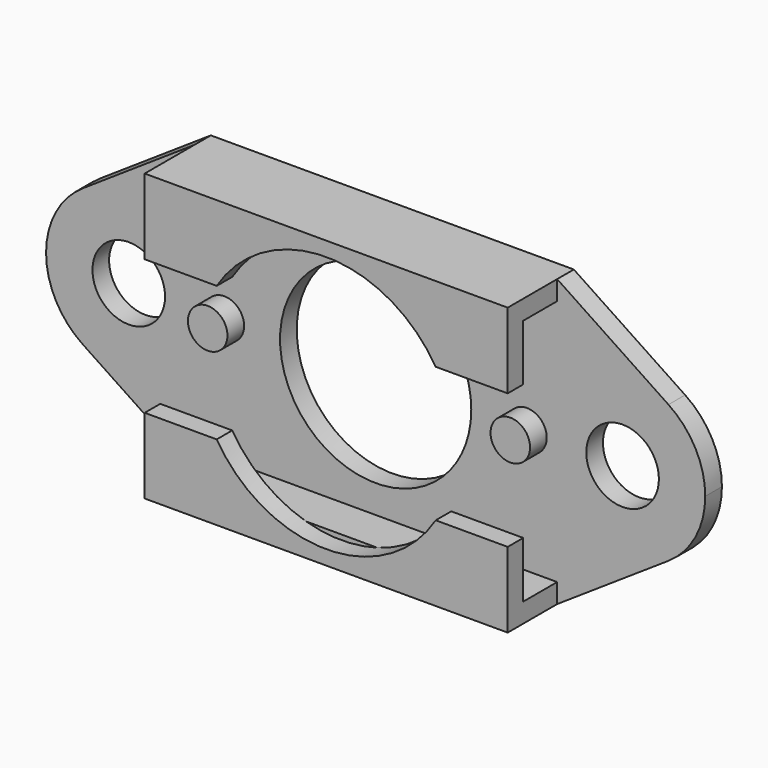
from build123d import *

# Parameters (mm, degrees)
F0_W      = 23.2918
F0_H      = 10.1092
F1_DEPTH  = 0.7366
F3_DEPTH  = 25.4
F4_R      = 1.2827
F4_R_2    = 3.3782
F5_DEPTH  = 0.7376
F6_R      = 0.6985
F7_DEPTH  = 0.7366
F9_DEPTH  = 2.1844
F10_W     = 1.4986
F10_H     = 1.9812
F11_DEPTH = 18.0604
F12_W     = 1.4986
F12_H     = 1.9812
F13_DEPTH = 18.0604
F15_DEPTH = 0.6858
F17_DEPTH = 0.6858


with BuildPart() as f1:
    # F0 (on Front) → F1 (new body)
    with BuildSketch(Plane.XZ):
        Rectangle(F0_W, F0_H)
    extrude(amount=F1_DEPTH)

    # F2 (on face) → F3 (cut)
    with BuildSketch(Plane.XZ.offset(0.7366)):
        with BuildLine():
            Line((-10.3464885777, 2.4295455305), (-6.4135, 5.0546))
            Line((-6.4135, 5.0546), (-11.6459, 5.0546))
            Line((-11.6459, 5.0546), (-11.6459, 0))
            ThreePointArc((-11.6459, 0), (-11.3006427313, 1.3776031295), (-10.3464885777, 2.4295455305))
        make_face()
        with BuildLine():
            Line((-11.6459, -5.0546), (-6.4135, -5.0546))
            Line((-6.4135, -5.0546), (-10.3464885777, -2.4295455305))
            ThreePointArc((-10.3464885777, -2.4295455305), (-11.3006427313, -1.3776031295), (-11.6459, 0))
            Line((-11.6459, 0), (-11.6459, -5.0546))
        make_face()
        with BuildLine():
            ThreePointArc((11.6459, 0), (11.3006427313, -1.3776031295), (10.3464885777, -2.4295455305))
            Line((10.3464885777, -2.4295455305), (6.4135, -5.0546))
            Line((6.4135, -5.0546), (11.6459, -5.0546))
            Line((11.6459, -5.0546), (11.6459, 0))
        make_face()
        with BuildLine():
            ThreePointArc((10.3464885777, 2.4295455305), (11.3006427313, 1.3776031295), (11.6459, 0))
            Line((11.6459, 0), (11.6459, 5.0546))
            Line((11.6459, 5.0546), (6.4135, 5.0546))
            Line((6.4135, 5.0546), (10.3464885777, 2.4295455305))
        make_face()
    extrude(amount=-F3_DEPTH, mode=Mode.SUBTRACT)

    # F4 (on face) → F5 (cut, through all)
    with BuildSketch(Plane.XZ.offset(0.7366)):
        with Locations((-8.7249, 0)):
            Circle(F4_R)
        Circle(F4_R_2)
        with Locations((8.7249, 0)):
            Circle(F4_R)
    extrude(amount=-F5_DEPTH, mode=Mode.SUBTRACT)

    # F6 (on face) → F7 (join)
    with BuildSketch(Plane.XZ.offset(0.7366)):
        with BuildLine():
            ThreePointArc((-4.6482, 0), (-5.3467, 0.6985), (-6.0452, 0))
            ThreePointArc((-6.0452, 0), (-5.3467, -0.6985), (-4.6482, 0))
        make_face()
        with Locations((5.3467, 0)):
            Circle(F6_R)
    extrude(amount=F7_DEPTH)

    # F8 (on face) → F9 (join)
    with BuildSketch(Plane.XZ.offset(0.7366)):
        with BuildLine():
            Line((-6.4135, 2.3876), (-2.3898957048, 2.3876))
            ThreePointArc((-2.3898957048, 2.3876), (0, 3.3782), (2.3898957048, 2.3876))
            Line((2.3898957048, 2.3876), (6.4135, 2.3876))
            Line((6.4135, 2.3876), (6.4135, 5.0546))
            Line((6.4135, 5.0546), (-6.4135, 5.0546))
            Line((-6.4135, 5.0546), (-6.4135, 2.3876))
        make_face()
        with BuildLine():
            Line((-6.4135, -2.3876), (-6.4135, -5.0546))
            Line((-6.4135, -5.0546), (6.4135, -5.0546))
            Line((6.4135, -5.0546), (6.4135, -2.3876))
            Line((6.4135, -2.3876), (2.3898957048, -2.3876))
            ThreePointArc((2.3898957048, -2.3876), (0, -3.3782), (-2.3898957048, -2.3876))
            Line((-2.3898957048, -2.3876), (-6.4135, -2.3876))
        make_face()
    extrude(amount=F9_DEPTH)

    # F10 (on face) → F11 (cut, through all)
    with BuildSketch(Plane(origin=(-6.4135, 0, 0), x_dir=(0, -1, 0), z_dir=(-1, 0, 0))):
        with Locations((1.4859, 3.3782)):
            Rectangle(F10_W, F10_H)
    extrude(amount=-F11_DEPTH, mode=Mode.SUBTRACT)

    # F12 (on face) → F13 (cut, through all)
    with BuildSketch(Plane(origin=(-6.4135, 0, 0), x_dir=(0, -1, 0), z_dir=(-1, 0, 0))):
        with Locations((1.4859, -3.3782)):
            Rectangle(F12_W, F12_H)
    extrude(amount=-F13_DEPTH, mode=Mode.SUBTRACT)

    # F14 (on face) → F15 (cut)
    with BuildSketch(Plane.XZ.offset(2.921)):
        with BuildLine():
            Line((2.3898957048, 2.3876), (3.8692296132, 2.3876))
            ThreePointArc((3.8692296132, 2.3876), (0, 4.5466), (-3.8692296132, 2.3876))
            Line((-3.8692296132, 2.3876), (-2.3898957048, 2.3876))
            ThreePointArc((-2.3898957048, 2.3876), (0, 3.3782), (2.3898957048, 2.3876))
        make_face()
    extrude(amount=-F15_DEPTH, mode=Mode.SUBTRACT)

    # F16 (on face) → F17 (cut)
    with BuildSketch(Plane.XZ.offset(2.921)):
        with BuildLine():
            Line((-2.3898957048, -2.3876), (-3.8692296132, -2.3876))
            ThreePointArc((-3.8692296132, -2.3876), (0, -4.5466), (3.8692296132, -2.3876))
            Line((3.8692296132, -2.3876), (2.3898957048, -2.3876))
            ThreePointArc((2.3898957048, -2.3876), (0, -3.3782), (-2.3898957048, -2.3876))
        make_face()
    extrude(amount=-F17_DEPTH, mode=Mode.SUBTRACT)


solid = f1.part
